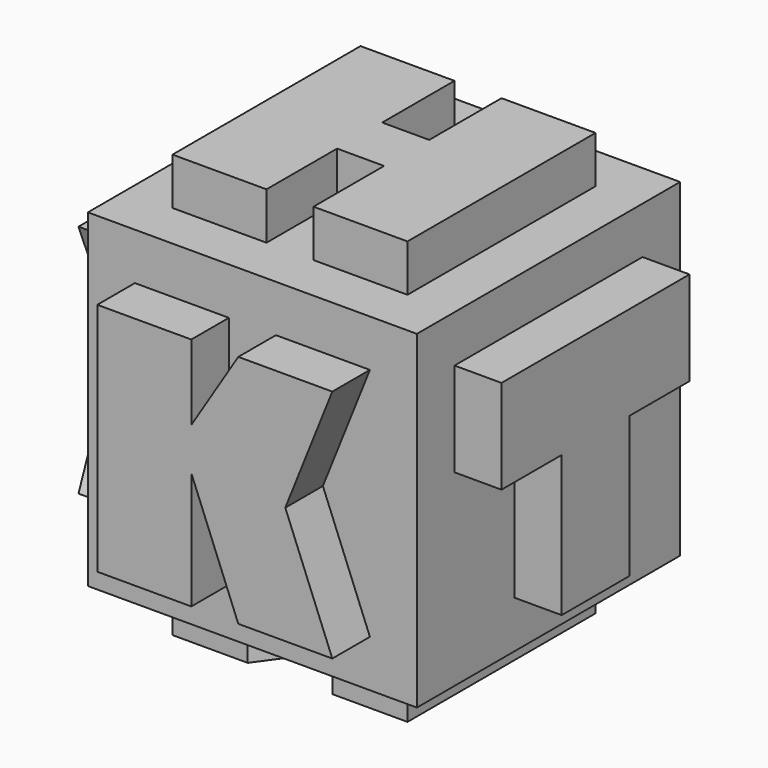
from build123d import *

# Parameters (mm, degrees)
F0_W      = 44.45
F0_H      = 44.45
F1_DEPTH  = 44.45
F4_DEPTH  = 6.35
F5_W      = 17.78
F5_H      = 6.35
F6_DEPTH  = 6.35
F8_DEPTH  = 6.35
F10_DEPTH = 6.35
F11_DEPTH = 6.35
F13_DEPTH = 6.35
F6_FACE_W = 17.78
F6_FACE_H = 6.35
F14_DEPTH = 6.35


with BuildPart() as f1:
    # F0 (on Front) → F1 (new body)
    with BuildSketch(Plane.XZ):
        with Locations((22.225, 22.225)):
            Rectangle(F0_W, F0_H)
    extrude(amount=F1_DEPTH)

    # F3 (on face) → F4 (join)
    with BuildSketch(Plane.YZ.offset(44.45)):
        Polygon((-27.94, 25.4), (-27.94, 6.35), (-16.51, 6.35), (-16.51, 25.4), (-6.35, 25.4), (-6.35, 38.1), (-38.1, 38.1), (-38.1, 25.4), align=None)
    extrude(amount=F4_DEPTH)

    # F5 (on Front) → F6 (join)
    with BuildSketch(Plane.XZ):
        Polygon((25.4, 6.35), (38.1, 6.35), (38.1, 38.1), (6.35, 38.1), (6.35, 19.05), (12.7, 19.05), (6.35, 6.35), (19.05, 6.35), (25.4, 19.05), align=None)
        with Locations((22.225, 28.575)):
            Rectangle(F5_W, F5_H, mode=Mode.SUBTRACT)
    extrude(amount=-F6_DEPTH)

    # F7 (on face) → F8 (join)
    with BuildSketch(Plane.XY.offset(44.45)):
        Polygon((19.05, -6.35), (6.35, -6.35), (6.35, -38.1), (19.05, -38.1), (19.05, -26.1793940588), (25.4, -26.1793940588), (25.4, -38.1), (38.1, -38.1), (38.1, -6.35), (25.4, -6.35), (25.4, -18.5593940588), (19.05, -18.5593940588), align=None)
    extrude(amount=F8_DEPTH)

    # F9 (on face) → F10 (join)
    with BuildSketch(Plane(origin=(0, 0, 0), x_dir=(1, 0, 0), z_dir=(0, 0, -1))):
        Polygon((6.35, 38.1), (6.35, 6.35), (16.51, 6.35), (16.51, 22.225), (27.94, 6.35), (38.1, 6.35), (38.1, 38.1), (27.94, 38.1), (27.94, 22.225), (16.51, 38.1), align=None)
    extrude(amount=F10_DEPTH)

    # F2 (on face) → F11 (join)
    with BuildSketch(Plane.XZ.offset(44.45)):
        Polygon((19.05, 38.1), (6.35, 38.1), (6.35, 6.35), (19.05, 6.35), (19.05, 22.225), (25.4, 6.35), (38.1, 6.35), (31.75, 22.225), (38.1, 38.1), (25.4, 38.1), (19.05, 27.94), align=None)
    extrude(amount=F11_DEPTH)

    # F12 (on face) → F13 (join)
    with BuildSketch(Plane(origin=(0, 0, 0), x_dir=(0, -1, 0), z_dir=(-1, 0, 0))):
        Polygon((6.35, 38.1), (6.35, 6.35), (19.05, 6.35), (19.05, 22.225), (25.4, 6.35), (38.1, 6.35), (31.75, 22.225), (38.1, 38.1), (25.4, 38.1), (19.05, 27.94), (19.05, 38.1), align=None)
    extrude(amount=F13_DEPTH)

    # F5 (on Front) + F6_face (on face) → F14 (join)
    with BuildSketch(Plane.XZ):
        Polygon((25.4, 6.35), (38.1, 6.35), (38.1, 38.1), (6.35, 38.1), (6.35, 19.05), (12.7, 19.05), (6.35, 6.35), (19.05, 6.35), (25.4, 19.05), align=None)
        with Locations((22.225, 28.575)):
            Rectangle(F5_W, F5_H, mode=Mode.SUBTRACT)
    with BuildSketch(Plane(origin=(22.225, 0, 28.575), x_dir=(-1, 0, 0), z_dir=(0, 1, 0))):
        Rectangle(F6_FACE_W, F6_FACE_H)
    extrude(amount=F14_DEPTH, dir=(0, -1, 0))


solid = f1.part
